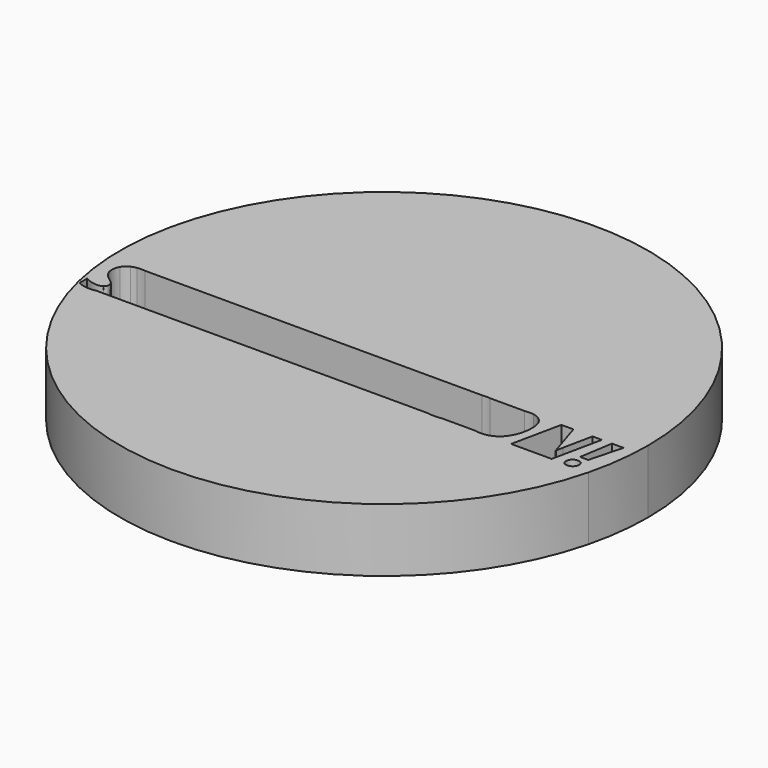
from build123d import *

# Parameters (mm, degrees)
F1_DEPTH = 10


with BuildPart() as f1:
    # F0 (on Top) → F1 (new body)
    with BuildSketch(Plane.XY):
        with BuildLine():
            ThreePointArc((40.4156393511, -7.9090867682), (41.3673030509, -2.8418043205), (41.6861501393, 2.3041991517))
            ThreePointArc((41.6861501393, 2.3041991517), (-5.1460034722, 43.6715022026), (-40.4156393511, -7.9090867682))
            Line((-40.4156393511, -7.9090867682), (-40.4156393511, 0))
            Line((-40.4156393511, 0), (-37.1771354638, 0))
            add(Edge.make_bspline(
                [(-37.1771354638, 0), (-36.8978650572, 0.0446259236), (-36.5915409745, 0.0446259236)],
                knots=[0.6161917381, 0.6161917381, 0.6161917381, 1, 1, 1], degree=2))
            add(Edge.make_bspline(
                [(-36.5915409745, 0.0446259236), (-36.2539809593, 0.0446259236), (-35.9330292975, 0)],
                knots=[0, 0, 0, 0.2900730853, 0.2900730853, 0.2900730853], degree=2))
            Line((-35.9330292975, 0), (17.3402957465, 0))
            add(Edge.make_bspline(
                [(17.3402957465, 0), (17.6195661531, 0.0446259236), (17.9258902358, 0.0446259236)],
                knots=[0.6161917381, 0.6161917381, 0.6161917381, 1, 1, 1], degree=2))
            add(Edge.make_bspline(
                [(17.9258902358, 0.0446259236), (18.263450251, 0.0446259236), (18.5844019128, 0)],
                knots=[0, 0, 0, 0.2900730853, 0.2900730853, 0.2900730853], degree=2))
            Line((18.5844019128, 0), (24.0306765024, 0))
            add(Edge.make_bspline(
                [(24.0306765024, 0), (24.369078423, 0.0566405953), (24.7330599673, 0.0566405953)],
                knots=[0.7021583014, 0.7021583014, 0.7021583014, 1, 1, 1], degree=2))
            add(Edge.make_bspline(
                [(24.7330599673, 0.0566405953), (25.1035042565, 0.0566405953), (25.4286990035, 0)],
                knots=[0, 0, 0, 0.2708012802, 0.2708012802, 0.2708012802], degree=2))
            Line((25.4286990035, 0), (40.4156393511, 0))
            Line((40.4156393511, 0), (40.4156393511, -7.9090867682))
        make_face()
        with BuildLine():
            Line((-39.3036225538, -7.9090867682), (-40.4156393511, -7.9090867682))
            ThreePointArc((-40.4156393511, -7.9090867682), (0, -39.3819509876), (40.4156393511, -7.9090867682))
            Line((40.4156393511, -7.9090867682), (37.7818098534, -7.9090867682))
            add(Edge.make_bspline(
                [(37.7818098534, -7.9090867682), (37.5360380286, -8.053262829), (37.1991400882, -8.053262829)],
                knots=[0.2939431181, 0.2939431181, 0.2939431181, 1, 1, 1], degree=2))
            add(Edge.make_bspline(
                [(37.1991400882, -8.053262829), (36.8661003441, -8.053262829), (36.6575202765, -7.9090867682)],
                knots=[0, 0, 0, 0.8473185457, 0.8473185457, 0.8473185457], degree=2))
            Line((36.6575202765, -7.9090867682), (34.6297167175, -7.9090867682))
            Line((34.6297167175, -7.9090867682), (32.7949047047, -7.9090867682))
            Line((32.7949047047, -7.9090867682), (29.7002685409, -7.9090867682))
            Line((29.7002685409, -7.9090867682), (28.2258966802, -7.9090867682))
            Line((28.2258966802, -7.9090867682), (24.4546855592, -7.9090867682))
            add(Edge.make_bspline(
                [(24.4546855592, -7.9090867682), (23.9989033781, -8.0172188138), (23.4938323964, -8.0172188138)],
                knots=[0.5796214889, 0.5796214889, 0.5796214889, 1, 1, 1], degree=2))
            add(Edge.make_bspline(
                [(23.4938323964, -8.0172188138), (22.9862299942, -8.0172188138), (22.5610753448, -7.9090867682)],
                knots=[0, 0, 0, 0.3696747706, 0.3696747706, 0.3696747706], degree=2))
            Line((22.5610753448, -7.9090867682), (17.2428330681, -7.9090867682))
            add(Edge.make_bspline(
                [(17.2428330681, -7.9090867682), (16.7839236692, -8.0172188138), (16.2318215205, -8.0172188138)],
                knots=[0.5928274645, 0.5928274645, 0.5928274645, 1, 1, 1], degree=2))
            add(Edge.make_bspline(
                [(16.2318215205, -8.0172188138), (15.671241471, -8.0172188138), (15.2138086565, -7.9090867682)],
                knots=[0, 0, 0, 0.4726565934, 0.4726565934, 0.4726565934], degree=2))
            Line((15.2138086565, -7.9090867682), (12.4883930827, -7.9090867682))
            Line((12.4883930827, -7.9090867682), (10.8526813444, -7.9090867682))
            Line((10.8526813444, -7.9090867682), (5.8374140839, -7.9090867682))
            Line((5.8374140839, -7.9090867682), (3.4190323008, -7.9090867682))
            Line((3.4190323008, -7.9090867682), (-1.5962349597, -7.9090867682))
            Line((-1.5962349597, -7.9090867682), (-4.0146167428, -7.9090867682))
            Line((-4.0146167428, -7.9090867682), (-4.9603430469, -7.9090867682))
            Line((-4.9603430469, -7.9090867682), (-6.5531452432, -7.9090867682))
            Line((-6.5531452432, -7.9090867682), (-10.1403829484, -7.9090867682))
            Line((-10.1403829484, -7.9090867682), (-11.8567646255, -7.9090867682))
            Line((-11.8567646255, -7.9090867682), (-14.7128237363, -7.9090867682))
            Line((-14.7128237363, -7.9090867682), (-16.3056259326, -7.9090867682))
            Line((-16.3056259326, -7.9090867682), (-19.8928636378, -7.9090867682))
            Line((-19.8928636378, -7.9090867682), (-21.6092453149, -7.9090867682))
            Line((-21.6092453149, -7.9090867682), (-22.2374410087, -7.9090867682))
            Line((-22.2374410087, -7.9090867682), (-26.6193634304, -7.9090867682))
            Line((-26.6193634304, -7.9090867682), (-28.5073832753, -7.9090867682))
            Line((-28.5073832753, -7.9090867682), (-30.1482441586, -7.9090867682))
            Line((-30.1482441586, -7.9090867682), (-32.6747579873, -7.9090867682))
            Line((-32.6747579873, -7.9090867682), (-34.3104697256, -7.9090867682))
            Line((-34.3104697256, -7.9090867682), (-37.2745981422, -7.9090867682))
            add(Edge.make_bspline(
                [(-37.2745981422, -7.9090867682), (-37.7335075411, -8.0172188138), (-38.2856096898, -8.0172188138)],
                knots=[0.5928274645, 0.5928274645, 0.5928274645, 1, 1, 1], degree=2))
            add(Edge.make_bspline(
                [(-38.2856096898, -8.0172188138), (-38.8461897393, -8.0172188138), (-39.3036225538, -7.9090867682)],
                knots=[0, 0, 0, 0.4726565934, 0.4726565934, 0.4726565934], degree=2))
        make_face()
        with BuildLine():
            Line((-40.4156393511, 0), (-40.4156393511, -7.9090867682))
            Line((-40.4156393511, -7.9090867682), (-39.3036225538, -7.9090867682))
            add(Edge.make_bspline(
                [(-39.3036225538, -7.9090867682), (-39.8139807759, -7.788443743), (-40.1959424964, -7.5331991809)],
                knots=[0.4726565934, 0.4726565934, 0.4726565934, 1, 1, 1], degree=2))
            Line((-40.1959424964, -7.5331991809), (-40.1959424964, -6.0639764653))
            add(Edge.make_bspline(
                [(-40.1959424964, -6.0639764653), (-39.1609643451, -6.6423970904), (-38.2753113997, -6.6423970904)],
                knots=[0, 0, 0, 1, 1, 1], degree=2))
            add(Edge.make_bspline(
                [(-38.2753113997, -6.6423970904), (-37.6745778127, -6.6423970904), (-37.3364506223, -6.4149765182)],
                knots=[0, 0, 0, 1, 1, 1], degree=2))
            add(Edge.make_bspline(
                [(-37.3364506223, -6.4149765182), (-36.998323432, -6.187555946), (-36.998323432, -5.7910717786)],
                knots=[0, 0, 0, 1, 1, 1], degree=2))
            add(Edge.make_bspline(
                [(-36.998323432, -5.7910717786), (-36.998323432, -5.5593602522), (-37.0712696532, -5.385147512)],
                knots=[0, 0, 0, 1, 1, 1], degree=2))
            add(Edge.make_bspline(
                [(-37.0712696532, -5.385147512), (-37.1442158745, -5.2109347717), (-37.2780936453, -5.060751375)],
                knots=[0, 0, 0, 1, 1, 1], degree=2))
            add(Edge.make_bspline(
                [(-37.2780936453, -5.060751375), (-37.4119714161, -4.9105679782), (-37.9423333544, -4.5140838108)],
                knots=[0, 0, 0, 1, 1, 1], degree=2))
            add(Edge.make_bspline(
                [(-37.9423333544, -4.5140838108), (-38.6838102389, -3.9820054909), (-38.9841770324, -3.4619418427)],
                knots=[0, 0, 0, 1, 1, 1], degree=2))
            add(Edge.make_bspline(
                [(-38.9841770324, -3.4619418427), (-39.2845438259, -2.9418781946), (-39.2845438259, -2.3411446076)],
                knots=[0, 0, 0, 1, 1, 1], degree=2))
            add(Edge.make_bspline(
                [(-39.2845438259, -2.3411446076), (-39.2845438259, -1.6494427917), (-38.9515657805, -1.1053498001)],
                knots=[0, 0, 0, 1, 1, 1], degree=2))
            add(Edge.make_bspline(
                [(-38.9515657805, -1.1053498001), (-38.6185877352, -0.5612568084), (-38.0041230947, -0.2583154424)],
                knots=[0, 0, 0, 1, 1, 1], degree=2))
            add(Edge.make_bspline(
                [(-38.0041230947, -0.2583154424), (-37.6254950599, -0.0716454755), (-37.1771354638, 0)],
                knots=[0, 0, 0, 0.6161917381, 0.6161917381, 0.6161917381], degree=2))
            Line((-37.1771354638, 0), (-40.4156393511, 0))
        make_face()
        with BuildLine():
            Line((37.7818098534, -7.9090867682), (40.4156393511, -7.9090867682))
            Line((40.4156393511, -7.9090867682), (40.4156393511, 0))
            Line((40.4156393511, 0), (25.4286990035, 0))
            add(Edge.make_bspline(
                [(25.4286990035, 0), (26.3043654444, -0.1525186646), (26.8519331477, -0.7157311594)],
                knots=[0.2708012802, 0.2708012802, 0.2708012802, 1, 1, 1], degree=2))
            add(Edge.make_bspline(
                [(26.8519331477, -0.7157311594), (27.6028501314, -1.4881029141), (27.6028501314, -2.8783720725)],
                knots=[0, 0, 0, 1, 1, 1], degree=2))
            add(Edge.make_bspline(
                [(27.6028501314, -2.8783720725), (27.6028501314, -4.3956534751), (27.0716300023, -5.5945460766)],
                knots=[0, 0, 0, 1, 1, 1], degree=2))
            add(Edge.make_bspline(
                [(27.0716300023, -5.5945460766), (26.5404098733, -6.793438678), (25.6178547218, -7.4053287459)],
                knots=[0, 0, 0, 1, 1, 1], degree=2))
            add(Edge.make_bspline(
                [(25.6178547218, -7.4053287459), (25.0831219313, -7.7599933781), (24.4546855592, -7.9090867682)],
                knots=[0, 0, 0, 0.5796214889, 0.5796214889, 0.5796214889], degree=2))
            Line((24.4546855592, -7.9090867682), (28.2258966802, -7.9090867682))
            Line((28.2258966802, -7.9090867682), (29.8822049986, -0.0669388854))
            Line((29.8822049986, -0.0669388854), (31.7976869503, -0.0669388854))
            Line((31.7976869503, -0.0669388854), (33.6204842914, -5.8442796106))
            Line((33.6204842914, -5.8442796106), (33.6427972532, -5.8442796106))
            add(Edge.make_bspline(
                [(33.6427972532, -5.8442796106), (33.7063033752, -5.4357807714), (33.851337627, -4.6797146427)],
                knots=[0, 0, 0, 1, 1, 1], degree=2))
            add(Edge.make_bspline(
                [(33.851337627, -4.6797146427), (33.9963718787, -3.9236485139), (34.8168023203, -0.0669388854)],
                knots=[0, 0, 0, 1, 1, 1], degree=2))
            Line((34.8168023203, -0.0669388854), (36.2877414176, -0.0669388854))
            Line((36.2877414176, -0.0669388854), (34.6297167175, -7.9090867682))
            Line((34.6297167175, -7.9090867682), (36.6575202765, -7.9090867682))
            add(Edge.make_bspline(
                [(36.6575202765, -7.9090867682), (36.6199354647, -7.8831071519), (36.5863918294, -7.8524461728)],
                knots=[0.8473185457, 0.8473185457, 0.8473185457, 1, 1, 1], degree=2))
            add(Edge.make_bspline(
                [(36.5863918294, -7.8524461728), (36.3666949748, -7.6516295166), (36.3666949748, -7.2929057461)],
                knots=[0, 0, 0, 1, 1, 1], degree=2))
            add(Edge.make_bspline(
                [(36.3666949748, -7.2929057461), (36.3666949748, -6.8088861131), (36.6541889057, -6.5196758005)],
                knots=[0, 0, 0, 1, 1, 1], degree=2))
            add(Edge.make_bspline(
                [(36.6541889057, -6.5196758005), (36.9416828366, -6.2304654879), (37.4617464848, -6.2304654879)],
                knots=[0, 0, 0, 1, 1, 1], degree=2))
            add(Edge.make_bspline(
                [(37.4617464848, -6.2304654879), (37.8256194003, -6.2304654879), (38.045316255, -6.4338567167)],
                knots=[0, 0, 0, 1, 1, 1], degree=2))
            add(Edge.make_bspline(
                [(38.045316255, -6.4338567167), (38.2650131097, -6.6372479454), (38.2650131097, -7.0079863877)],
                knots=[0, 0, 0, 1, 1, 1], degree=2))
            add(Edge.make_bspline(
                [(38.2650131097, -7.0079863877), (38.2650131097, -7.4748422038), (37.970653652, -7.7640525164)],
                knots=[0, 0, 0, 1, 1, 1], degree=2))
            add(Edge.make_bspline(
                [(37.970653652, -7.7640525164), (37.8841287152, -7.8490638975), (37.7818098534, -7.9090867682)],
                knots=[0, 0, 0, 0.2939431181, 0.2939431181, 0.2939431181], degree=2))
        make_face()
        Polygon((39.7033409551, -0.0669388854), (38.3302356134, -5.3070521456), (37.0378002105, -5.3070521456), (37.8788272323, -0.0669388854), align=None, mode=Mode.SUBTRACT)
    extrude(amount=F1_DEPTH)


solid = f1.part
